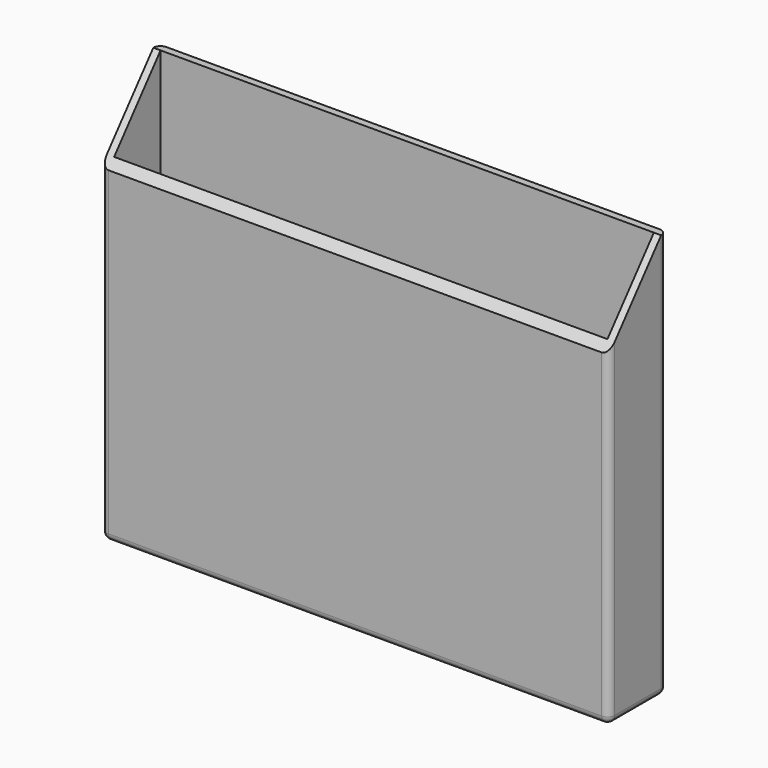
from build123d import *

# Parameters (mm, degrees)
F0_W     = 140
F0_H     = 20
F1_DEPTH = 2
F2_W     = 140
F2_H     = 20
F2_W_2   = 136
F2_H_2   = 16
F3_DEPTH = 110
F5_DEPTH = 160
F6_R     = 2


with BuildPart() as f1:
    # F0 (on Top) → F1 (new body)
    with BuildSketch(Plane.XY):
        Rectangle(F0_W, F0_H)
    extrude(amount=F1_DEPTH)

    # F2 (on face) → F3 (join)
    with BuildSketch(Plane.XY.offset(2)):
        Rectangle(F2_W, F2_H)
        Rectangle(F2_W_2, F2_H_2, mode=Mode.SUBTRACT)
    extrude(amount=F3_DEPTH)

    # F4 (on face) → F5 (cut)
    with BuildSketch(Plane(origin=(-70, 0, 0), x_dir=(0, -1, 0), z_dir=(-1, 0, 0))):
        Polygon((10, 112), (-8, 112), (10, 90.232462), align=None)
    extrude(amount=-F5_DEPTH, mode=Mode.SUBTRACT)

    # F6
    f6_edges = [f1.edges().sort_by_distance(p)[0] for p in [
        (-70, -10, 45.116231),
        (70, -10, 45.116231),
        (-70, 10, 56),
        (70, 10, 56),
        (0, -10, 0),
        (70, 0, 0),
        (0, 10, 0),
        (-70, 0, 0),
    ]]
    fillet(f6_edges, radius=F6_R)


solid = f1.part
